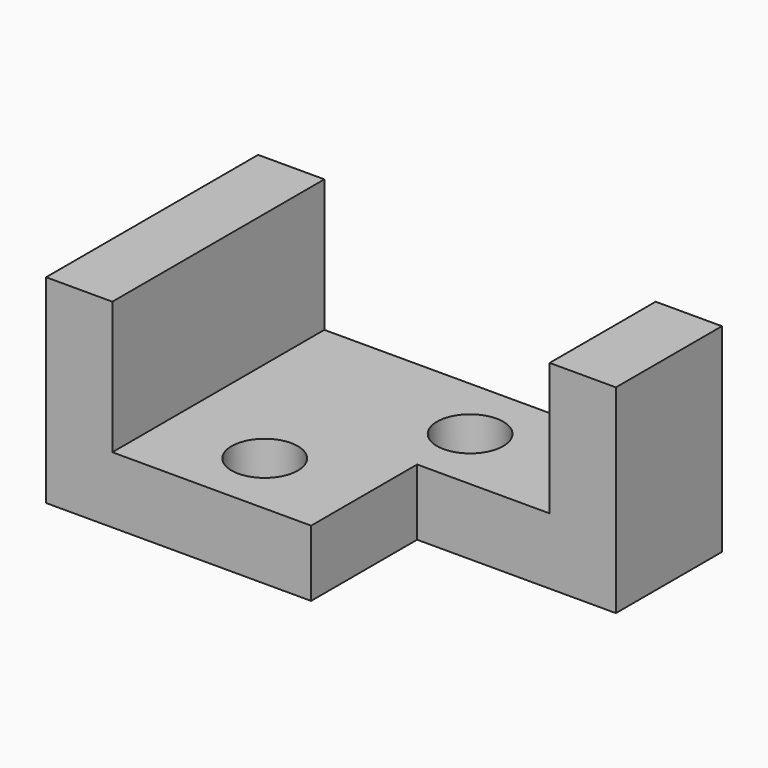
from build123d import *

# Parameters (mm, degrees)
F0_W     = 88.9
F0_H     = 38.1
F1_DEPTH = 50.8
F2_W     = 63.5
F2_H     = 25.4
F3_DEPTH = 50.8
F5_DEPTH = 25.4
F6_DEPTH = 25.4
F7_R     = 6.35
F8_DEPTH = 50.8
F9_DEPTH = 50.8


with BuildPart() as f1:
    # F0 (on Front) → F1 (new body)
    with BuildSketch(Plane.XZ):
        Rectangle(F0_W, F0_H)
    extrude(amount=F1_DEPTH)

    # F2 (on face) → F3 (cut)
    with BuildSketch(Plane.XZ.offset(50.8)):
        with Locations((0, 6.35)):
            Rectangle(F2_W, F2_H)
    extrude(amount=-F3_DEPTH, mode=Mode.SUBTRACT)

    # F4 (on face) → F5 (cut)
    with BuildSketch(Plane.XZ.offset(50.8)):
        Polygon((6.35, -19.05), (44.45, -19.05), (44.45, -6.35), (31.75, -6.35), (6.35, -6.35), align=None)
    extrude(amount=-F5_DEPTH, mode=Mode.SUBTRACT)

    # F6 (cut): a face of the model
    f6_faces = [f1.faces().sort_by_distance(p)[0] for p in [
        (38.1, -50.8, 6.35),
    ]]
    extrude(f6_faces, amount=-F6_DEPTH, mode=Mode.SUBTRACT)

    # F7 (on face) → F8 (cut)
    with BuildSketch(Plane.XY.offset(-6.35)):
        with Locations((6.35, -12.7)):
            Circle(F7_R)
    extrude(amount=-F8_DEPTH, mode=Mode.SUBTRACT)

    # F7 (on face) → F9 (cut)
    with BuildSketch(Plane.XY.offset(-6.35)):
        with Locations((-12.7, -38.1)):
            Circle(F7_R)
    extrude(amount=-F9_DEPTH, mode=Mode.SUBTRACT)


solid = f1.part
